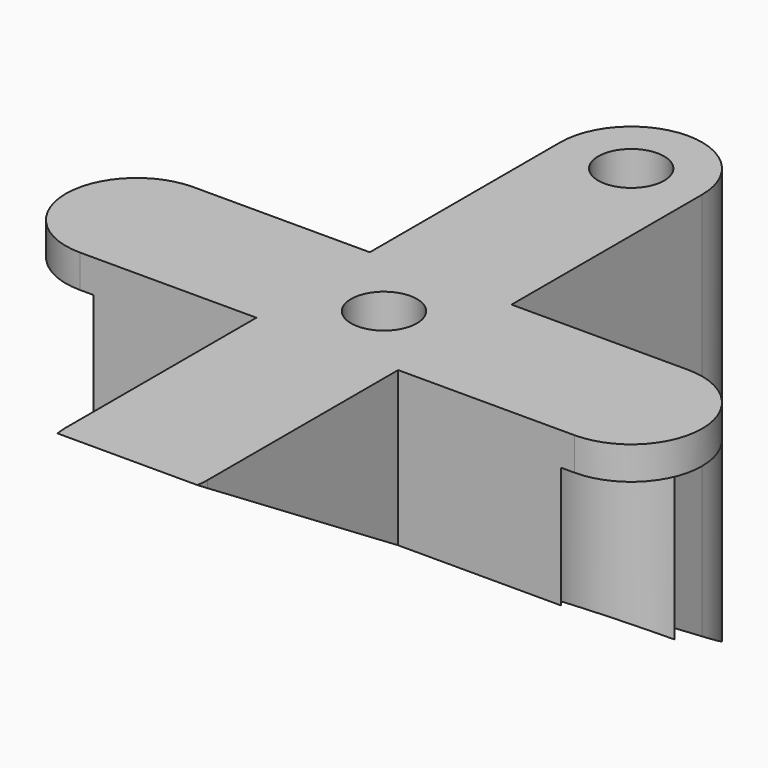
from build123d import *

# Parameters (mm, degrees)
F0_W          = 4.28
F0_H          = 3.44
F0_W_2        = 3.44
F0_H_2        = 5.78
F1_DEPTH      = 12
F3_DEPTH      = 25
F3_DEPTH_BACK = 25
F5_R          = 0.8
F6_DEPTH      = 55
F7_W          = 30.6417569518
F7_H          = 23.9444840699
F8_DEPTH      = 1.5
F9_R          = 0.8
F10_DEPTH     = 10.501
F4_R          = 1.75
F12_DEPTH     = 9.7


with BuildPart() as f1:
    # F0 (on Top) → F1 (new body)
    with BuildSketch(Plane.XY):
        with Locations((3.86, 0)):
            Rectangle(F0_W, F0_H)
        with BuildLine():
            Line((6, 1.72), (6, -1.72))
            ThreePointArc((6, -1.72), (7.72, 0), (6, 1.72))
        make_face()
        with Locations((0, -4.61)):
            Rectangle(F0_W_2, F0_H_2)
        Rectangle(F0_W_2, F0_H)
        with Locations((-3.86, 0)):
            Rectangle(F0_W, F0_H)
        with BuildLine():
            ThreePointArc((-1.72, -7.5), (0, -9.22), (1.72, -7.5))
            Line((1.72, -7.5), (-1.72, -7.5))
        make_face()
        with Locations((0, 4.61)):
            Rectangle(F0_W_2, F0_H_2)
        with BuildLine():
            ThreePointArc((-6, 1.72), (-7.72, 0), (-6, -1.72))
            Line((-6, -1.72), (-6, 1.72))
        make_face()
        with BuildLine():
            Line((-1.72, 7.5), (1.72, 7.5))
            ThreePointArc((1.72, 7.5), (0, 9.22), (-1.72, 7.5))
        make_face()
    extrude(amount=F1_DEPTH)

    # F2 (on Right) → F3 (cut, two sides)
    with BuildSketch(Plane.YZ) as f3_sk:
        Polygon((-7.5, 0), (7.5, 0), (7.5, 1.0621960754), (-7.5, 10.3255339419), align=None)
        Polygon((7.5, 1.0621960754), (7.5, 0), (9.22, 0), align=None)
        Polygon((-9.22, 0), (-7.5, 0), (-7.5, 10.3255339419), (-9.22, 11.3877300173), align=None)
    extrude(amount=-F3_DEPTH, mode=Mode.SUBTRACT)
    extrude(f3_sk.sketch, amount=F3_DEPTH_BACK, mode=Mode.SUBTRACT)

    # F5 (on Top) → F6 (cut)
    with BuildSketch(Plane.XY):
        Circle(F5_R)
    extrude(amount=F6_DEPTH, mode=Mode.SUBTRACT)

    # F7 (on face) → F8 (cut)
    with BuildSketch(Plane.XY.offset(12)):
        Rectangle(F7_W, F7_H)
    extrude(amount=-F8_DEPTH, mode=Mode.SUBTRACT)

    # F9 (on face) → F10 (cut, through all)
    with BuildSketch(Plane.XY.offset(10.5)):
        with Locations((0, 7.5)):
            Circle(F9_R)
    extrude(amount=-F10_DEPTH, mode=Mode.SUBTRACT)

    # F4 (on Top) → F12 (cut)
    with BuildSketch(Plane.XY):
        with Locations((6, 0)):
            Circle(F4_R)
        with Locations((-6, 0)):
            Circle(F4_R)
    extrude(amount=F12_DEPTH, mode=Mode.SUBTRACT)


solid = f1.part
